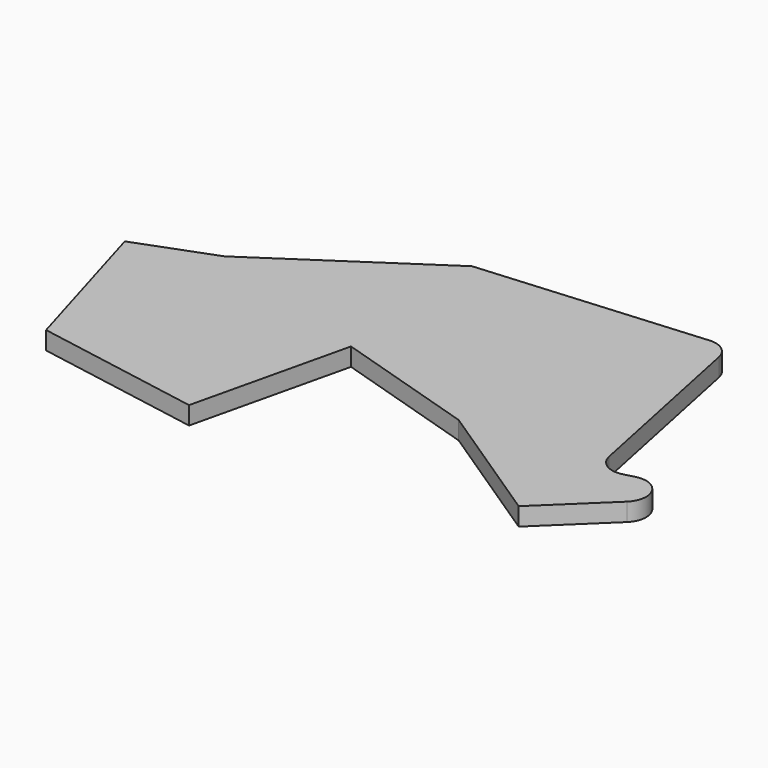
from build123d import *

# Parameters (mm, degrees)
F1_DEPTH = 7.810256
F2_R     = 9.500317


with BuildPart() as f1:
    # F0 (on Top) → F1 (new body)
    with BuildSketch(Plane.XY):
        Polygon((102.104664, -42.101711), (52.642256, -54.86621), (32.355845, 43.374807), (-72.951227, 34.941122), (-142.928019, -11.786044), (-176.206872, -24.322599), (-156.376317, -91.792062), (-84.120184, -104.556561), (-68.164557, -36.631227), (-5.937636, -56.005895), (49.451143, -92.703819), align=None)
    extrude(amount=-F1_DEPTH)

    # F2
    f2_edges = [f1.edges().sort_by_distance(p)[0] for p in [
        (102.104664, -42.101711, -3.905128),
        (52.642256, -54.86621, -3.905128),
        (32.355845, 43.374807, -3.905128),
    ]]
    fillet(f2_edges, radius=F2_R)


solid = f1.part
